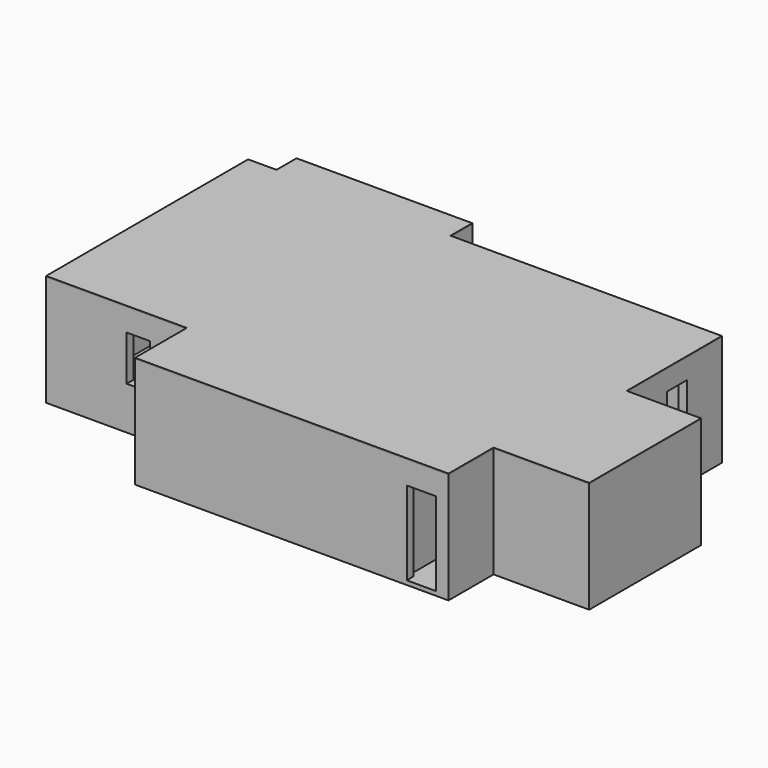
from build123d import *

# Parameters (mm, degrees)
F1_DEPTH       = 2550
F3_DEPTH       = 100
F4_W           = 630
F4_H           = 140
F4_W_2         = 200
F4_H_2         = 1790
F5_DEPTH       = 2550
F6_W           = 830
F6_H           = 1150
F7_DEPTH       = 3700.001
F8_W           = 600
F8_H           = 1120
F9_DEPTH       = 200
F11_DEPTH      = 200
F13_DEPTH      = 200
F14_W          = 570
F14_H          = 1050
F15_DEPTH      = 200
F16_W          = 570
F16_H          = 1050
F17_DEPTH      = 200
F18_W          = 550
F18_H          = 1050
F19_DEPTH      = 200
F20_W          = 560
F20_H          = 1080
F21_DEPTH      = 200
F22_W          = 1080
F22_H          = 1650
F23_DEPTH      = 200
F24_W          = 350
F24_H          = 570
F25_DEPTH      = 220
F26_W          = 670
F26_H          = 2000
F27_DEPTH      = 100
F28_W          = 650
F28_H          = 2000
F29_DEPTH      = 90
F29_DEPTH_BACK = 1830
F30_W          = 700
F30_H          = 2000
F31_DEPTH      = 200
F32_W          = 750
F32_H          = 2000
F33_DEPTH      = 100
F36_DEPTH      = 25
F37_W          = 770
F37_H          = 525
F38_DEPTH      = 25
F40_DEPTH      = 25
F42_R          = 350
F43_DEPTH      = 1000
F44_W          = 487.3422718048
F44_H          = 1580
F45_DEPTH      = 700
F44_W_2        = 1550
F44_H_2        = 487.3422718048
F47_DEPTH      = 500
F49_DEPTH      = 500


with BuildPart() as f1:
    # F0 (on Top) → F1 (new body)
    with BuildSketch(Plane.XY):
        Polygon((710, 7350), (-5790, 7350), (-5790, 8000), (-10000, 8000), (-10000, 7400), (-10680, 7400), (-10680, 1350), (-7310, 1350), (-7310, -200), (200, -200), (200, 1150), (2490, 1150), (2490, 4500), (710, 4500), align=None)
        Polygon((0, 1350), (0, 0), (-7110, 0), (-7110, 1550), (-10480, 1550), (-10480, 7200), (-9800, 7200), (-9800, 7800), (-5990, 7800), (-5990, 7150), (510, 7150), (510, 4300), (2290, 4300), (2290, 1350), align=None, mode=Mode.SUBTRACT)
    extrude(amount=F1_DEPTH)

    # F2 (on face) → F3 (join)
    with BuildSketch(Plane(origin=(0, 0, 0), x_dir=(1, 0, 0), z_dir=(0, 0, -1))):
        Polygon((-10680, -7400), (-10000, -7400), (-10000, -8000), (-5790, -8000), (-5790, -7350), (710, -7350), (710, -4500), (2490, -4500), (2490, -1150), (200, -1150), (200, 200), (-7310, 200), (-7310, -1350), (-10680, -1350), align=None)
    extrude(amount=F3_DEPTH)

    # F4 (on Top) → F5 (join)
    with BuildSketch(Plane.XY):
        Polygon((-7120, 3458.5786437627), (-7120, 1550), (-7110, 1550), (-7110, 1330), (-5410, 1330), (-5410, 1550), (-5410, 1580), (-4240, 1580), (-4140, 1580), (-3530, 1580), (-3530, 1680), (-3530, 3260), (-3480, 3260), (-3480, 3500), (-7020, 3500), (-7855, 4335), (-7070, 5120), (-6220, 4270), (-3780, 4270), (-3780, 7350), (-3880, 7350), (-3880, 4370), (-6178.5786437627, 4370), (-7020, 5211.4213562373), (-7020, 8000), (-7120, 8000), (-7120, 5211.4213562373), (-7961.4213562373, 4370), (-8480, 4370), (-9110, 4370), (-10680, 4370), (-10680, 4300), (-7961.4213562373, 4300), align=None)
        Polygon((-7020, 3410), (-5470, 3410), (-5470, 1700), (-5620, 1700), (-5620, 1550), (-7020, 1550), align=None, mode=Mode.SUBTRACT)
        Polygon((-3610, 3260), (-3610, 1680), (-5410, 1680), (-5410, 3410), (-4280, 3410), (-4280, 3260), align=None, mode=Mode.SUBTRACT)
        with Locations((-8795, 4440)):
            Rectangle(F4_W, F4_H)
        Polygon((-4140, 1580), (-4240, 1580), (-4240, 150), (-4420, 150), (-4420, 0), (-4140, 0), align=None)
        with Locations((-1000, 895)):
            Rectangle(F4_W_2, F4_H_2)
    extrude(amount=F5_DEPTH)

    # F6 (on face) → F7 (cut, through all)
    with BuildSketch(Plane.XZ.offset(-4300)):
        with Locations((1635, 1475)):
            Rectangle(F6_W, F6_H)
    extrude(amount=-F7_DEPTH, mode=Mode.SUBTRACT)

    # F8 (on face) → F9 (cut, through all)
    with BuildSketch(Plane(origin=(510, 0, 0), x_dir=(0, -1, 0), z_dir=(-1, 0, 0))):
        with Locations((-6000, 1510)):
            Rectangle(F8_W, F8_H)
    extrude(amount=-F9_DEPTH, mode=Mode.SUBTRACT)

    # F10 (on face) → F11 (cut, through all)
    with BuildSketch(Plane.XZ.offset(-7150)):
        with BuildLine():
            Line((-2520, 1880), (-2520, 700))
            Line((-2520, 700), (-820, 700))
            Line((-820, 700), (-820, 1880))
            ThreePointArc((-820, 1880), (-1670, 2196.3842213547), (-2520, 1880))
        make_face()
    extrude(amount=-F11_DEPTH, mode=Mode.SUBTRACT)

    # F12 (on face) → F13 (cut, through all)
    with BuildSketch(Plane.XZ.offset(-7150)):
        with BuildLine():
            Line((-5600, 1980), (-5600, 930))
            Line((-5600, 930), (-5080, 930))
            Line((-5080, 930), (-5080, 1980))
            ThreePointArc((-5080, 1980), (-5340, 2130.333704529), (-5600, 1980))
        make_face()
    extrude(amount=-F13_DEPTH, mode=Mode.SUBTRACT)

    # F14 (on face) → F15 (cut, through all)
    with BuildSketch(Plane.XZ.offset(-7800)):
        with Locations((-7965, 1445)):
            Rectangle(F14_W, F14_H)
    extrude(amount=-F15_DEPTH, mode=Mode.SUBTRACT)

    # F16 (on face) → F17 (cut, through all)
    with BuildSketch(Plane.YZ.offset(-10480)):
        with Locations((5855, 1445)):
            Rectangle(F16_W, F16_H)
    extrude(amount=-F17_DEPTH, mode=Mode.SUBTRACT)

    # F18 (on face) → F19 (cut, through all)
    with BuildSketch(Plane.YZ.offset(-10480)):
        with Locations((1875, 1445)):
            Rectangle(F18_W, F18_H)
    extrude(amount=-F19_DEPTH, mode=Mode.SUBTRACT)

    # F20 (on face) → F21 (cut, through all)
    with BuildSketch(Plane(origin=(0, 1550, 0), x_dir=(-1, 0, 0), z_dir=(0, 1, 0))):
        with Locations((8470, 1470)):
            Rectangle(F20_W, F20_H)
    extrude(amount=-F21_DEPTH, mode=Mode.SUBTRACT)

    # F22 (on face) → F23 (cut, through all)
    with BuildSketch(Plane.YZ.offset(-7110)):
        with Locations((690, 1675)):
            Rectangle(F22_W, F22_H)
    extrude(amount=-F23_DEPTH, mode=Mode.SUBTRACT)

    # F24 (on face) → F25 (cut, through all)
    with BuildSketch(Plane.XZ.offset(-1330)):
        with Locations((-6835, 1775)):
            Rectangle(F24_W, F24_H)
    extrude(amount=-F25_DEPTH, mode=Mode.SUBTRACT)

    # F26 (on face) → F27 (cut, through all)
    with BuildSketch(Plane.YZ.offset(-7020)):
        with Locations((2455, 1000)):
            Rectangle(F26_W, F26_H)
    extrude(amount=-F27_DEPTH, mode=Mode.SUBTRACT)

    # F28 (on face) → F29 (cut, two sides)
    with BuildSketch(Plane.XZ.offset(-3410)) as f29_sk:
        with Locations((-4655, 1000)):
            Rectangle(F28_W, F28_H)
    extrude(amount=-F29_DEPTH, mode=Mode.SUBTRACT)
    extrude(f29_sk.sketch, amount=F29_DEPTH_BACK, mode=Mode.SUBTRACT)

    # F30 (on face) → F31 (cut, through all)
    with BuildSketch(Plane(origin=(0, 0, 0), x_dir=(-1, 0, 0), z_dir=(0, 1, 0))):
        with Locations((450, 1000)):
            Rectangle(F30_W, F30_H)
    extrude(amount=-F31_DEPTH, mode=Mode.SUBTRACT)

    # F32 (on face) → F33 (cut, through all)
    with BuildSketch(Plane.YZ.offset(-4140)):
        with Locations((1005, 1000)):
            Rectangle(F32_W, F32_H)
    extrude(amount=-F33_DEPTH, mode=Mode.SUBTRACT)

    # F35 (on offset) → F36 (join)
    with BuildSketch(Plane.XY.offset(2000)):
        Polygon((-3780, 4270), (-6220, 4270), (-7070, 5120), (-7855, 4335), (-7020, 3500), (-3780, 3500), align=None)
    extrude(amount=F36_DEPTH)

    # F37 (on face) → F38 (join)
    with BuildSketch(Plane.YZ.offset(-3780)):
        with Locations((3885, 2287.5)):
            Rectangle(F37_W, F37_H)
    extrude(amount=-F38_DEPTH)

    # F42 (on offset) → F43 (join)
    with BuildSketch(Plane.XY.offset(1300)):
        with Locations((-6460, 350)):
            Circle(F42_R)
    extrude(amount=F43_DEPTH)


with BuildPart() as f40:
    # F39 (on face) → F40 (new body)
    with BuildSketch(Plane.XY.offset(2550)):
        Polygon((-7310, 1350), (-7310, -200), (200, -200), (200, 1150), (2490, 1150), (2490, 4500), (710, 4500), (710, 7350), (-5790, 7350), (-5790, 8000), (-10000, 8000), (-10000, 7400), (-10680, 7400), (-10680, 1350), align=None)
    extrude(amount=F40_DEPTH)


with BuildPart() as f45:
    # F44 (on face) → F45 (new body)
    with BuildSketch(Plane.XY):
        with Locations((-3853.6711359024, 2470)):
            Rectangle(F44_W, F44_H)
    extrude(amount=F45_DEPTH)

    # F46 (on face) → F47 (cut)
    with BuildSketch(Plane.XY.offset(700)):
        with BuildLine():
            ThreePointArc((-3760, 1780), (-3724.6446609407, 1794.6446609407), (-3710, 1830))
            Line((-3710, 1830), (-3710, 3110))
            ThreePointArc((-3710, 3110), (-3724.6446609407, 3145.3553390593), (-3760, 3160))
            Line((-3760, 3160), (-3947.3422718048, 3160))
            ThreePointArc((-3947.3422718048, 3160), (-3982.6976108641, 3145.3553390593), (-3997.3422718048, 3110))
            Line((-3997.3422718048, 3110), (-3997.3422718048, 1830))
            ThreePointArc((-3997.3422718048, 1830), (-3982.6976108641, 1794.6446609407), (-3947.3422718048, 1780))
            Line((-3947.3422718048, 1780), (-3760, 1780))
        make_face()
    extrude(amount=-F47_DEPTH, mode=Mode.SUBTRACT)


with BuildPart() as f45b:
    # F44 (on face) → F45, piece 2 (new body)
    with BuildSketch(Plane.XY):
        with Locations((-6245, 3166.3288640976)):
            Rectangle(F44_W_2, F44_H_2)
    extrude(amount=F45_DEPTH)

    # F48 (on face) → F49 (cut)
    with BuildSketch(Plane.XY.offset(700)):
        with BuildLine():
            ThreePointArc((-5550, 3280), (-5564.6446609407, 3315.3553390593), (-5600, 3330))
            Line((-5600, 3330), (-6890, 3330))
            ThreePointArc((-6890, 3330), (-6925.3553390593, 3315.3553390593), (-6940, 3280))
            Line((-6940, 3280), (-6940, 3052.6577281952))
            ThreePointArc((-6940, 3052.6577281952), (-6925.3553390593, 3017.3023891359), (-6890, 3002.6577281952))
            Line((-6890, 3002.6577281952), (-5600, 3002.6577281952))
            ThreePointArc((-5600, 3002.6577281952), (-5564.6446609407, 3017.3023891359), (-5550, 3052.6577281952))
            Line((-5550, 3052.6577281952), (-5550, 3280))
        make_face()
    extrude(amount=-F49_DEPTH, mode=Mode.SUBTRACT)


solid = Compound([f1.part, f40.part, f45.part, f45b.part])
